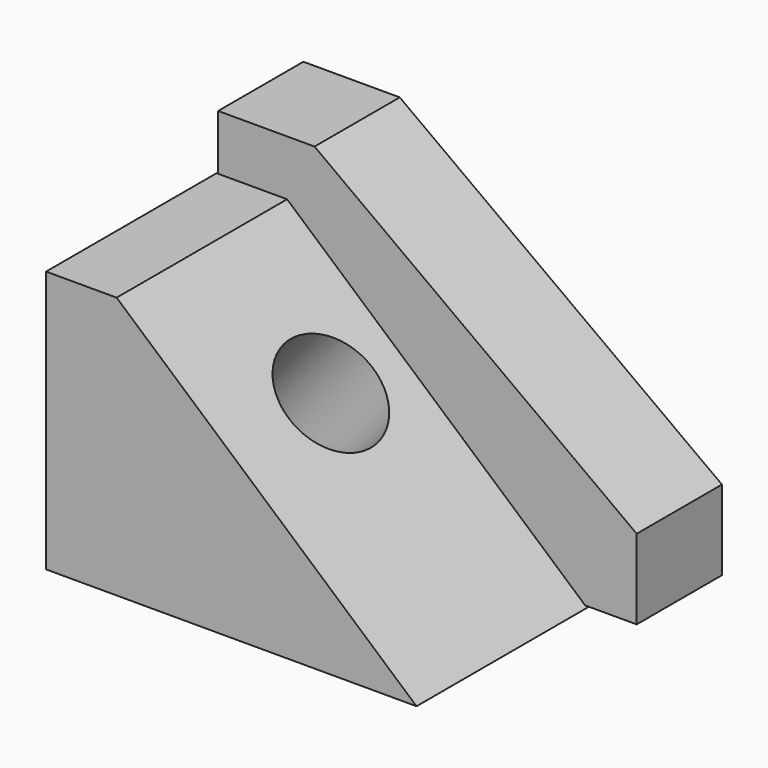
from build123d import *

# Parameters (mm, degrees)
F0_W     = 88.3264541626
F0_H     = 62.5167712569
F1_DEPTH = 76.2
F3_DEPTH = 76.201
F4_R     = 12.6699231952
F5_DEPTH = 58.1391964974
F6_W     = 99.7974202037
F6_H     = 75.3260236233
F7_DEPTH = 25.4
F9_DEPTH = 25.401


with BuildPart() as f1:
    # F0 (on Front) → F1 (new body)
    with BuildSketch(Plane.XZ):
        Rectangle(F0_W, F0_H)
    extrude(amount=F1_DEPTH)

    # F2 (on face) → F3 (cut, through all)
    with BuildSketch(Plane.XZ.offset(76.2)):
        Polygon((44.1632270813, 31.2583856285), (-27.3391399533, 31.2583856285), (44.1632270813, -31.2583856285), align=None)
    extrude(amount=-F3_DEPTH, mode=Mode.SUBTRACT)

    # F4 (on face) → F5 (cut, through all)
    with BuildSketch(Plane(origin=(3.6445426056, 0, 4.1683762265), x_dir=(0.752826049, 0, -0.6582195227), z_dir=(0.6582195227, 0, 0.752826049))):
        with Locations((-5.3561865352, -46.0435785353)):
            Circle(F4_R)
    extrude(amount=-F5_DEPTH, mode=Mode.SUBTRACT)

    # F6 (on Front) → F7 (join)
    with BuildSketch(Plane.XZ):
        with Locations((6.1178505421, 6.7869918421)):
            Rectangle(F6_W, F6_H)
    extrude(amount=F7_DEPTH)

    # F8 (on face) → F9 (cut, through all)
    with BuildSketch(Plane.XZ.offset(25.4)):
        Polygon((56.0165606439, 44.4500036538), (-20.7964573056, 44.4500036538), (56.0165606439, -11.8411714114), align=None)
    extrude(amount=-F9_DEPTH, mode=Mode.SUBTRACT)


solid = f1.part
